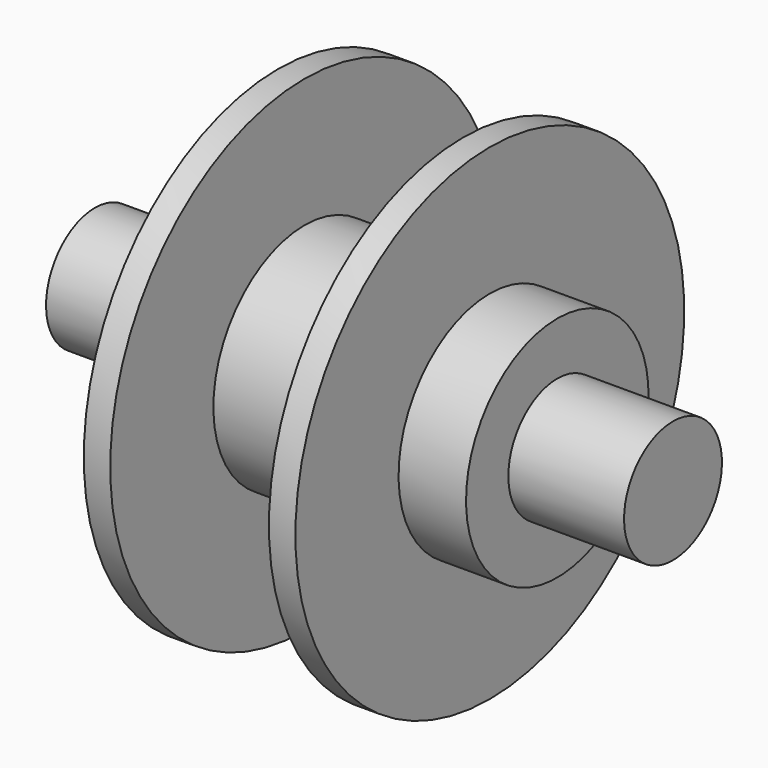
from build123d import *


with BuildPart() as f1:
    # F0 (on Front) → F1 (revolve)
    with BuildSketch(Plane.XZ):
        Polygon((-42.773414, 9.053119), (-42.773414, 0), (0, 0), (0, 16.882844), (-11.74459, 16.882844), (-11.74459, 35.967797), (-15.659451, 35.967797), (-15.659451, 16.882844), (-25.645891, 16.882844), (-25.645891, 9.053119), align=None)
        Polygon((0, 16.882844), (0, 0), (42.773414, 0), (42.773414, 9.053119), (25.645891, 9.053119), (25.645891, 16.882844), (15.659451, 16.882844), (15.659451, 35.967797), (11.74459, 35.967797), (11.74459, 16.882844), align=None)
    revolve(axis=Axis((-21.386707, 0, 0), (-1, 0, 0)))


solid = f1.part
